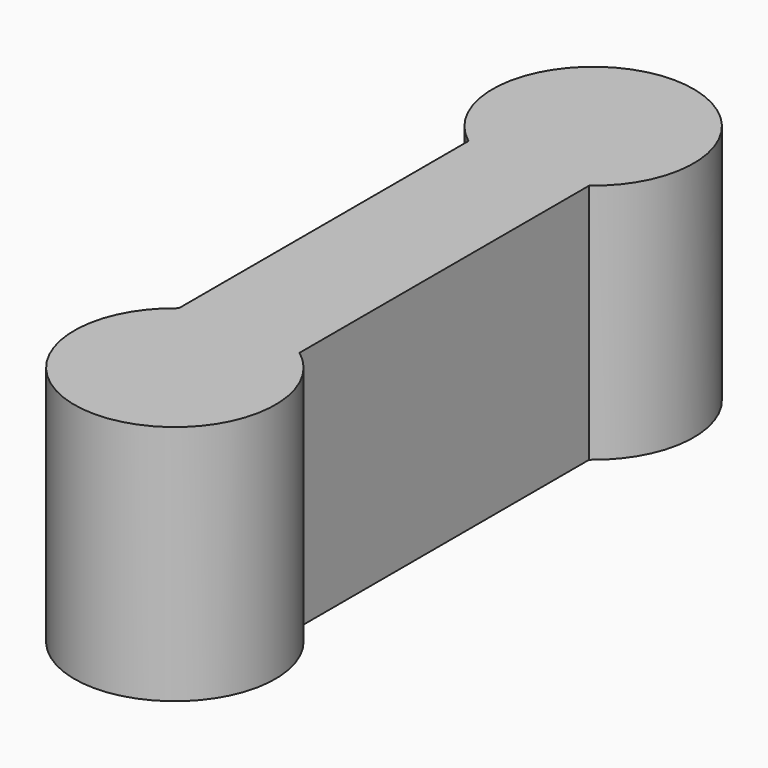
from build123d import *

# Parameters (mm, degrees)
PAD_DEPTH = 12


with BuildPart() as part:
    # Sketch → Pad (new body)
    with BuildSketch(Plane.XY):
        with BuildLine():
            Line((-3, 0), (-3, -9))
            ThreePointArc((-3, -9), (0, -18), (3, -9))
            Line((3, 0), (3, -9))
            Line((3, 0), (3, 9))
            ThreePointArc((3, 9), (0, 18), (-3, 9))
            Line((-3, 0), (-3, 9))
        make_face()
    extrude(amount=PAD_DEPTH)


solid = part.part
